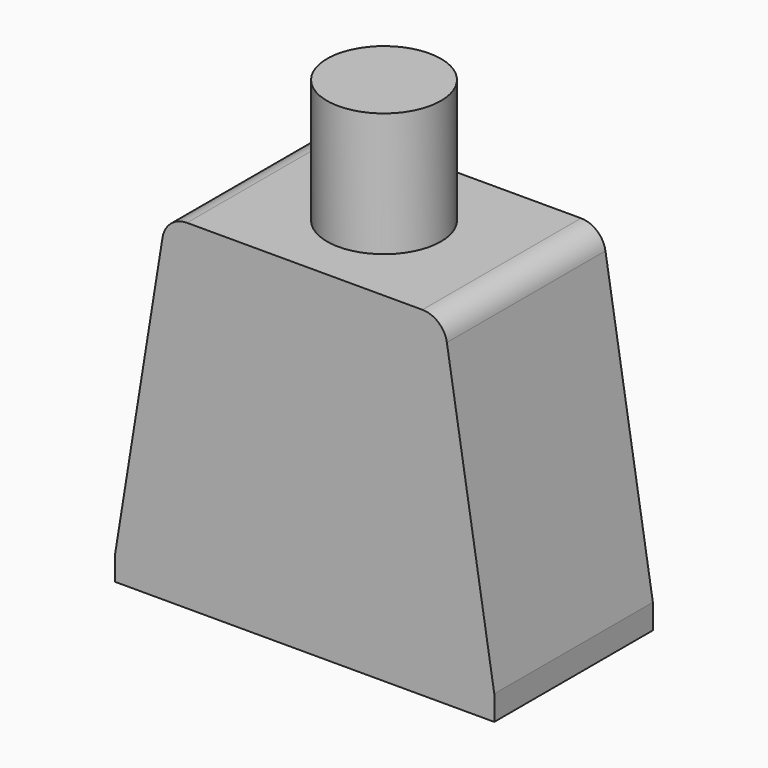
from build123d import *

# Parameters (mm, degrees)
F1_DEPTH = 4
F2_R     = 2.3
F3_DEPTH = 5


with BuildPart() as f1:
    # F0 (on Front) → F1 (new body, symmetric)
    with BuildSketch(Plane.XZ):
        with BuildLine():
            Line((-7.65, 1), (-7.65, 0))
            Line((-7.65, 0), (7.65, 0))
            Line((7.65, 0), (7.65, 1))
            Line((7.65, 1), (5.737241, 12.859231))
            ThreePointArc((5.737241, 12.859231), (5.398371, 13.461325), (4.75, 13.7))
            Line((4.75, 13.7), (-4.75, 13.7))
            ThreePointArc((-4.75, 13.7), (-5.398371, 13.461325), (-5.737241, 12.859231))
            Line((-5.737241, 12.859231), (-7.65, 1))
        make_face()
    extrude(amount=F1_DEPTH, both=True)

    # F2 (on face) → F3 (join)
    with BuildSketch(Plane.XY.offset(13.7)):
        Circle(F2_R)
    extrude(amount=F3_DEPTH)


solid = f1.part
